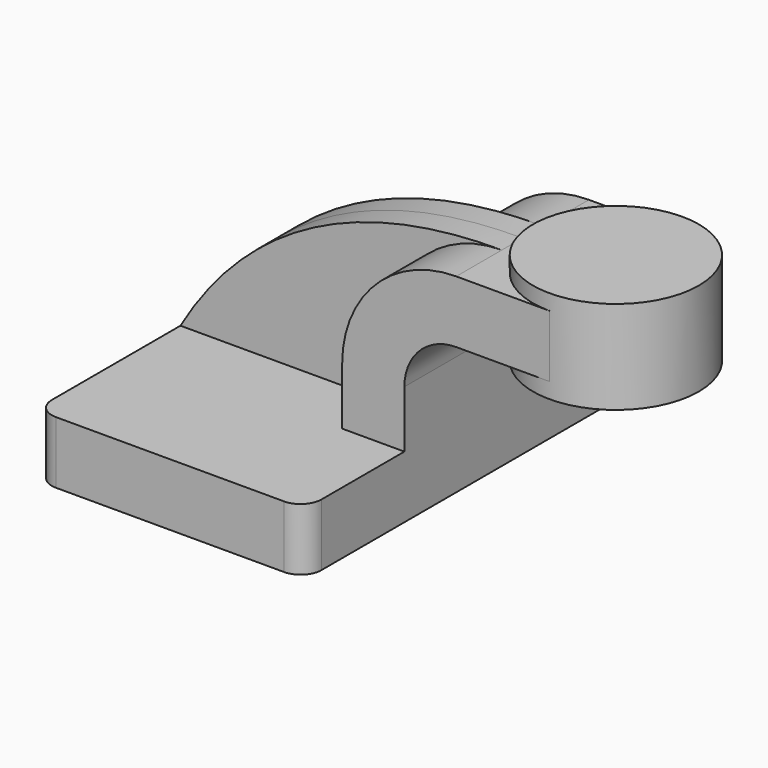
from build123d import *

# Parameters (mm, degrees)
F1_DEPTH = 63.5
F2_DEPTH = 25.4
F3_DEPTH = 7.9375
F5_R     = 6.35


with BuildPart() as f1:
    # F0 (on Front) → F1 (new body, symmetric)
    with BuildSketch(Plane.XZ):
        Polygon((-41.275, -9.525), (41.275, -9.525), (41.275, 9.525), (22.225, 9.525), (-41.275, 9.525), align=None)
    extrude(amount=F1_DEPTH, both=True)

    # F0 (on Front) → F2 (join, symmetric)
    with BuildSketch(Plane.XZ):
        with BuildLine():
            Line((22.225, 9.525), (41.275, 9.525))
            Line((41.275, 9.525), (41.275, 27.0002))
            ThreePointArc((41.275, 27.0002), (45.92468, 38.22552), (57.15, 42.8752))
            Line((57.15, 42.8752), (60.325, 42.8752))
            Line((60.325, 42.8752), (60.325, 61.9252))
            Line((60.325, 61.9252), (57.15, 61.9252))
            ThreePointArc((57.15, 61.9252), (32.454296, 51.695904), (22.225, 27.0002))
            Line((22.225, 27.0002), (22.225, 9.525))
        make_face()
        Polygon((85.725, 61.9252), (60.325, 61.9252), (60.325, 42.8752), (85.702203, 42.8752), align=None)
    extrude(amount=F2_DEPTH, both=True)

    # F0 (on Front) → F3 (join, symmetric)
    with BuildSketch(Plane.XZ):
        with BuildLine():
            add(Edge.make_bspline(
                [(-41.275, 9.525), (-25.517739, 36.63322), (3.348505, 62.103435), (57.15, 61.9252)],
                knots=[0, 0, 0, 0, 111.504536, 111.504536, 111.504536, 111.504536], degree=3))
            Line((-41.275, 9.525), (22.225, 9.525))
            Line((22.225, 9.525), (22.225, 27.0002))
            ThreePointArc((22.225, 27.0002), (32.454296, 51.695904), (57.15, 61.9252))
        make_face()
    extrude(amount=F3_DEPTH, both=True)

    # F0 (on Front) → F4 (revolve)
    with BuildSketch(Plane.XZ):
        Polygon((85.725, 66.675), (85.725, 61.9252), (85.725, 38.1), (111.125, 38.1), (111.125, 66.675), align=None)
    revolve(axis=Axis((85.725, 0, 52.3875), (0, 0, -1)))

    # F5
    f5_edges = [f1.edges().sort_by_distance(p)[0] for p in [
        (41.275, -63.5, 0),
        (41.275, 63.5, 0),
        (-41.275, -63.5, 0),
        (-41.275, 63.5, 0),
    ]]
    fillet(f5_edges, radius=F5_R)


solid = f1.part
